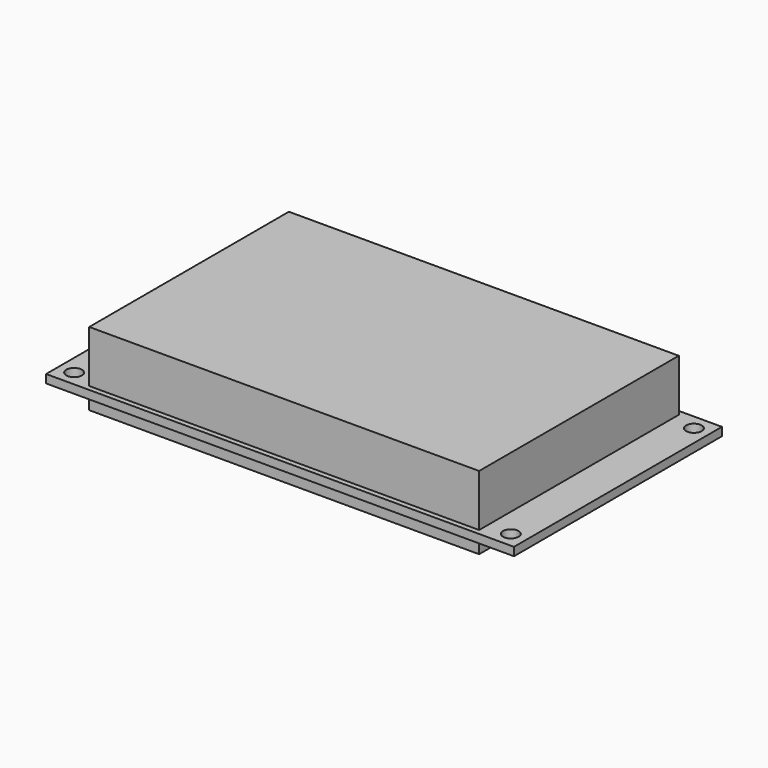
from build123d import *

# Parameters (mm, degrees)
F0_W     = 90
F0_H     = 50
F0_R     = 1.5
F0_W_2   = 75
F0_H_2   = 48
F1_DEPTH = 1.6
F3_W     = 75
F3_H     = 48
F4_DEPTH = 10
F5_DEPTH = 2.5


with BuildPart() as f1:
    # F0 (on Top) → F1 (new body)
    with BuildSketch(Plane.XY):
        Rectangle(F0_W, F0_H)
        with Locations((-42, -22)):
            Circle(F0_R, mode=Mode.SUBTRACT)
        with Locations((42, -22)):
            Circle(F0_R, mode=Mode.SUBTRACT)
        with Locations((-42, 22)):
            Circle(F0_R, mode=Mode.SUBTRACT)
        Rectangle(F0_W_2, F0_H_2, mode=Mode.SUBTRACT)
        with Locations((42, 22)):
            Circle(F0_R, mode=Mode.SUBTRACT)
        Rectangle(F0_W_2, F0_H_2)
    extrude(amount=F1_DEPTH)


with BuildPart() as f4:
    # F3 (on offset) → F4 (new body)
    with BuildSketch(Plane.XY.offset(1.6)):
        Rectangle(F3_W, F3_H)
    extrude(amount=F4_DEPTH)


with BuildPart() as f5:
    # F0 (on Top) → F5 (new body)
    with BuildSketch(Plane.XY):
        Rectangle(F0_W_2, F0_H_2)
    extrude(amount=-F5_DEPTH)


solid = Compound([f1.part, f4.part, f5.part])
